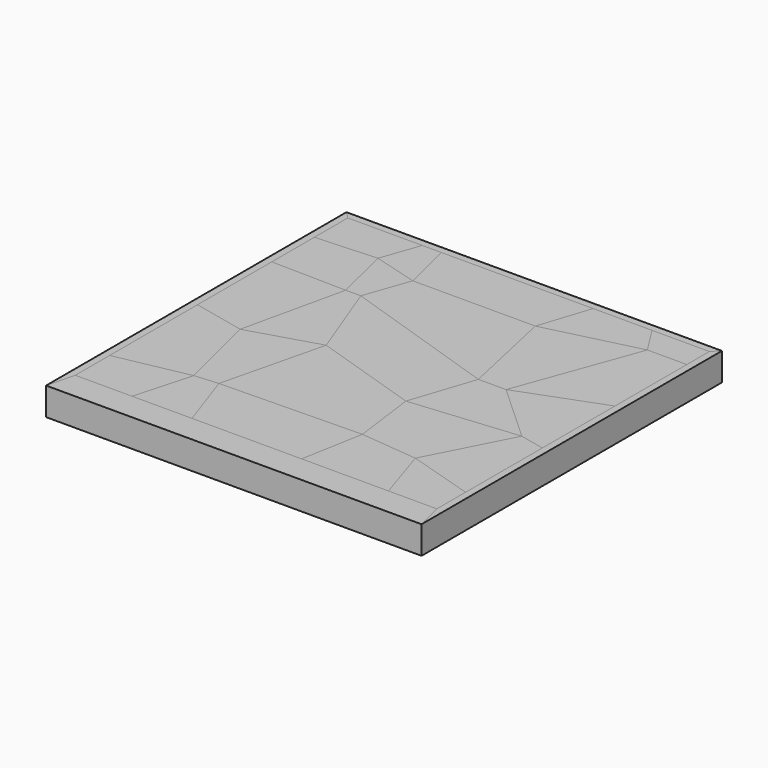
from build123d import *

# Parameters (mm, degrees)
F1_DEPTH = 25.4
F2_DEPTH = 25.4
F3_DEPTH = 25.4
F4_DEPTH = 25.4
F5_DEPTH = 25.4


with BuildPart() as f1:
    # F0 (on Top) → F1 (new body)
    with BuildSketch(Plane.XY):
        Polygon((165.1, 165.1), (171.45, 171.45), (-171.45, 171.45), (-165.1, 165.1), (-97.126547, 165.1), (-79.704373, 165.1), (58.920644, 165.1), (112.686343, 165.1), align=None)
        Polygon((-171.45, -171.45), (171.45, -171.45), (165.1, -146.05), (120.915994, -146.05), (41.568272, -146.05), (-58.532443, -146.05), (-113.305233, -146.05), (-165.1, -146.05), align=None)
    extrude(amount=F1_DEPTH)


with BuildPart() as f2:
    # F0 (on Top) → F2 (new body)
    with BuildSketch(Plane.XY):
        Polygon((-165.1, 165.1), (-171.45, 171.45), (-171.45, -171.45), (-165.1, -146.05), (-165.1, -106.878193), (-165.1, -6.485502), (-165.1, 78.235695), (-165.1, 126.86309), align=None)
        Polygon((171.45, -171.45), (171.45, 171.45), (165.1, 165.1), (165.1, 139.322575), (165.1, 57.30013), (165.1, -25.654365), (165.1, -113.215851), (165.1, -146.05), align=None)
    extrude(amount=F2_DEPTH)


with BuildPart() as f3:
    # F0 (on Top) → F3 (new body)
    with BuildSketch(Plane.XY):
        Polygon((-79.704373, 165.1), (-97.126547, 165.1), (-109.455608, 129.919944), (-68.323039, 118.213111), align=None)
        Polygon((-82.772188, 76.983541), (-96.605813, 76.983541), (-117.677249, -17.105883), (-54.356676, 1.968068), align=None)
        Polygon((-98.74364, -93.648814), (-113.305233, -146.05), (-58.532443, -146.05), (-77.241085, -91.928616), align=None)
        Polygon((129.053091, 139.322575), (112.686343, 165.1), (58.920644, 165.1), (43.610042, 118.213111), align=None)
        Polygon((142.301416, -20.548595), (88.641326, 28.585863), (63.287737, 28.585863), (43.895516, -29.938149), align=None)
        Polygon((41.568272, -146.05), (120.915994, -146.05), (104.240492, -94.508916), (51.774256, -89.348301), align=None)
    extrude(amount=F3_DEPTH)


with BuildPart() as f4:
    # F0 (on Top) → F4 (new body)
    with BuildSketch(Plane.XY):
        Polygon((-68.323039, 118.213111), (-109.455608, 129.919944), (-96.605813, 76.983541), (-82.772188, 76.983541), align=None)
        Polygon((-117.677249, -17.105883), (-98.74364, -93.648814), (-77.241085, -91.928616), (-54.356676, 1.968068), align=None)
        Polygon((51.774256, -89.348301), (104.240492, -94.508916), (142.301416, -20.548595), (43.895516, -29.938149), align=None)
        Polygon((88.641326, 28.585863), (129.053091, 139.322575), (43.610042, 118.213111), (63.287737, 28.585863), align=None)
        Polygon((43.610042, 118.213111), (58.920644, 165.1), (-79.704373, 165.1), (-68.323039, 118.213111), align=None)
        Polygon((-97.126547, 165.1), (-165.1, 165.1), (-165.1, 126.86309), (-109.455608, 129.919944), align=None)
        Polygon((43.895516, -29.938149), (63.287737, 28.585863), (-82.772188, 76.983541), (-54.356676, 1.968068), align=None)
        Polygon((165.1, -25.654365), (165.1, 57.30013), (88.641326, 28.585863), (142.301416, -20.548595), align=None)
        Polygon((165.1, 139.322575), (165.1, 165.1), (112.686343, 165.1), (129.053091, 139.322575), align=None)
        Polygon((120.915994, -146.05), (165.1, -146.05), (165.1, -113.215851), (104.240492, -94.508916), align=None)
        Polygon((-58.532443, -146.05), (41.568272, -146.05), (51.774256, -89.348301), (-77.241085, -91.928616), align=None)
        Polygon((-96.605813, 76.983541), (-165.1, 78.235695), (-165.1, -6.485502), (-117.677249, -17.105883), align=None)
        Polygon((-165.1, -106.878193), (-165.1, -146.05), (-113.305233, -146.05), (-98.74364, -93.648814), align=None)
    extrude(amount=F4_DEPTH)


with BuildPart() as f5:
    # F0 (on Top) → F5 (new body)
    with BuildSketch(Plane.XY):
        Polygon((-109.455608, 129.919944), (-165.1, 126.86309), (-165.1, 78.235695), (-96.605813, 76.983541), align=None)
        Polygon((63.287737, 28.585863), (43.610042, 118.213111), (-68.323039, 118.213111), (-82.772188, 76.983541), align=None)
        Polygon((165.1, 57.30013), (165.1, 139.322575), (129.053091, 139.322575), (88.641326, 28.585863), align=None)
        Polygon((104.240492, -94.508916), (165.1, -113.215851), (165.1, -25.654365), (142.301416, -20.548595), align=None)
        Polygon((-77.241085, -91.928616), (51.774256, -89.348301), (43.895516, -29.938149), (-54.356676, 1.968068), align=None)
        Polygon((-165.1, -6.485502), (-165.1, -106.878193), (-98.74364, -93.648814), (-117.677249, -17.105883), align=None)
    extrude(amount=F5_DEPTH)


solid = Compound([f1.part, f2.part, f3.part, f4.part, f5.part])
